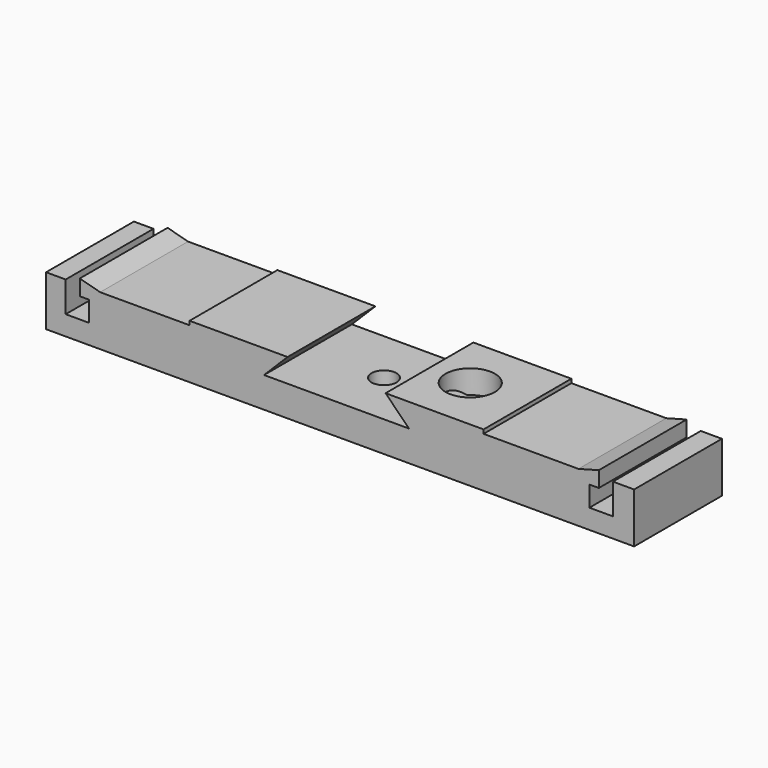
from build123d import *

# Parameters (mm, degrees)
F1_DEPTH = 7
F2_R     = 1.6
F3_DEPTH = 25
F4_START = -3.9
F2_R_2   = 3.15
F4_DEPTH = 21.1


with BuildPart() as f1:
    # F0 (on Front) → F1 (new body, symmetric)
    with BuildSketch(Plane.XZ):
        Polygon((-75, 0), (0, 0), (0, 6.4), (-2.7, 6.4), (-2.7, 2.5), (-5.7, 2.5), (-5.7, 5.1), (-4.5, 5.1), (-4.5, 6.4), (-4.5, 7.1), (-7.1, 6.4), (-19.2, 6.4), (-19.2, 6.9), (-31.7, 6.9), (-31.2, 6.4), (-28.7, 3.9), (-47.2, 3.9), (-44.7, 6.4), (-44.2, 6.9), (-56.7, 6.9), (-56.7, 6.4), (-68.1, 6.4), (-70.7, 7.1), (-70.7, 6.4), (-70.7, 5.1), (-69.5, 5.1), (-69.5, 2.5), (-72.5, 2.5), (-72.5, 6.4), (-75, 6.4), align=None)
    extrude(amount=F1_DEPTH, both=True)

    # F2 (on face) → F3 (cut)
    with BuildSketch(Plane(origin=(0, 0, 0), x_dir=(1, 0, 0), z_dir=(0, 0, -1))):
        with Locations((-37.5, 0)):
            Circle(F2_R)
        with Locations((-26.5, 0)):
            Circle(F2_R)
    extrude(amount=-F3_DEPTH, mode=Mode.SUBTRACT)

    # F2 (on face) → F4 (cut)
    with BuildSketch(Plane(origin=(0, 0, 0), x_dir=(1, 0, 0), z_dir=(0, 0, -1)).offset(F4_START)):
        with Locations((-26.5, 0)):
            Circle(F2_R_2)
        with Locations((-26.5, 0)):
            Circle(F2_R, mode=Mode.SUBTRACT)
    extrude(amount=-F4_DEPTH, mode=Mode.SUBTRACT)


solid = f1.part
